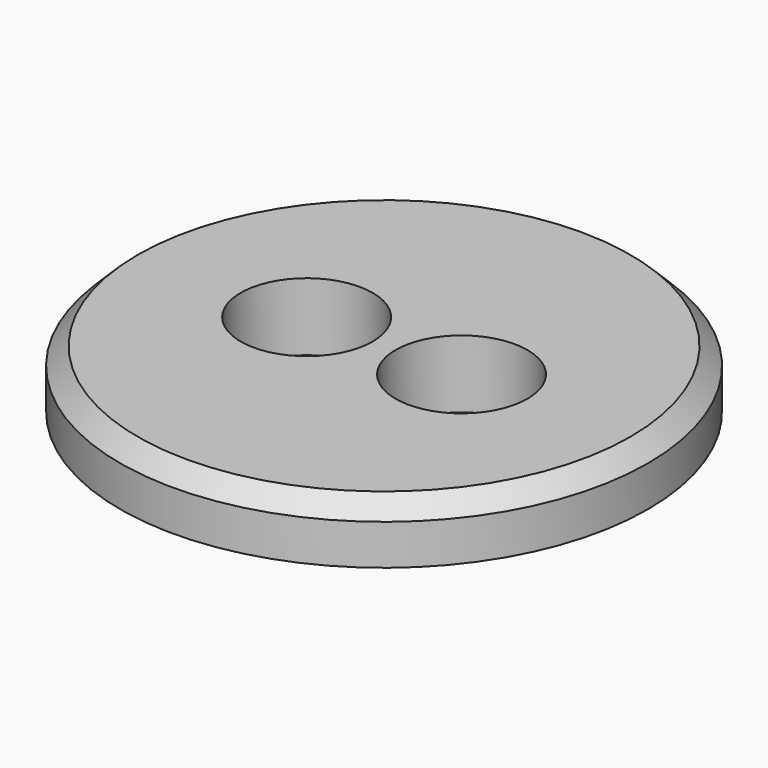
from build123d import *

# Parameters (mm, degrees)
F0_R     = 17.5
F1_DEPTH = 4.9
F2_R     = 30
F3_DEPTH = 6.6
F4_SIZE  = 2
F5_R     = 7.5
F5_R_2   = 4.075
F6_DEPTH = 7.7
F7_DEPTH = 11.501


with BuildPart() as f1:
    # F0 (on Top) → F1 (new body)
    with BuildSketch(Plane.XY):
        Circle(F0_R)
    extrude(amount=F1_DEPTH)

    # F2 (on face) → F3 (join)
    with BuildSketch(Plane.XY.offset(4.9)):
        Circle(F2_R)
    extrude(amount=F3_DEPTH)

    # F4
    f4_edges = [f1.edges().sort_by_distance(p)[0] for p in [
        (-30, 0, 11.5),
    ]]
    chamfer(f4_edges, length=F4_SIZE)

    # F5 (on face) → F6 (cut)
    with BuildSketch(Plane.XY.offset(11.5)):
        with Locations((-8.8, 0)):
            Circle(F5_R)
        with Locations((-8.8, 0)):
            Circle(F5_R_2, mode=Mode.SUBTRACT)
        with Locations((8.8, 0)):
            Circle(F5_R)
        with Locations((8.8, 0)):
            Circle(F5_R_2, mode=Mode.SUBTRACT)
    extrude(amount=-F6_DEPTH, mode=Mode.SUBTRACT)

    # F7 (cut, through all): faces of the model
    f7_faces = [f1.faces().sort_by_distance(p)[0] for p in [
        (-8.8, 0, 11.5),
        (8.8, 0, 11.5),
    ]]
    extrude(f7_faces, amount=-F7_DEPTH, mode=Mode.SUBTRACT)


solid = f1.part
